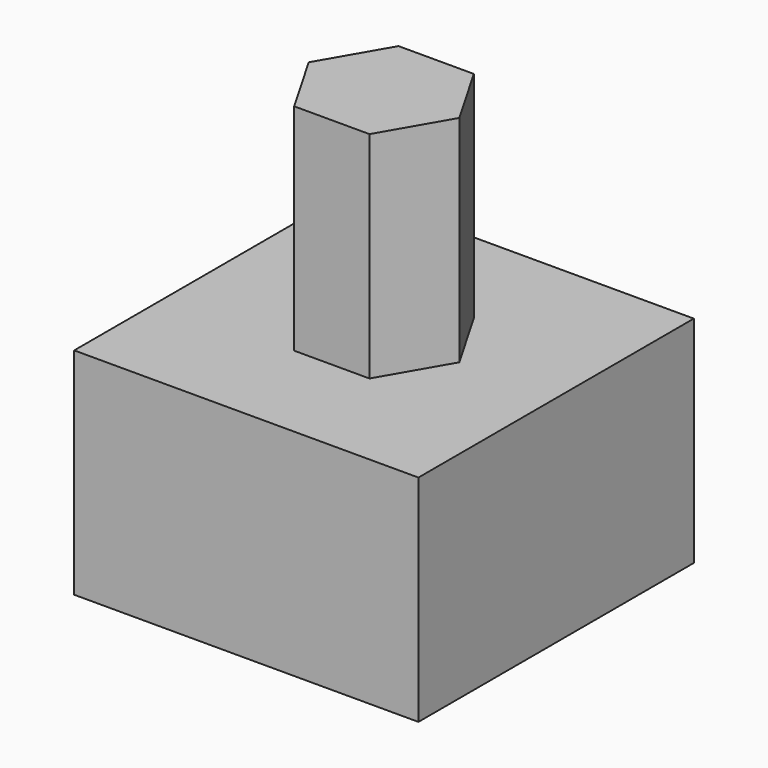
from build123d import *

# Parameters (mm, degrees)
BOX001_W      = 10
BOX001_H      = 10
BOX001_DEPTH  = 8
EXTRUDE_DEPTH = 10
BOX_W         = 16
BOX_H         = 16
BOX_DEPTH     = 10


with BuildPart() as cube001:
    # Box001 → Box001 (new body)
    with BuildSketch(Plane(origin=(-5, -5, 0), x_dir=(1, 0, 0), z_dir=(0, 0, 1))):
        with Locations((5, 5)):
            Rectangle(BOX001_W, BOX001_H)
    extrude(amount=BOX001_DEPTH)


with BuildPart() as extrude_body:
    # Sketch → Extrude (new body)
    with BuildSketch(Plane.XY):
        Polygon((-3.5, 0), (-1.75, -3.031089), (1.75, -3.031089), (3.5, 0), (1.75, 3.031089), (-1.75, 3.031089), align=None)
    extrude(amount=EXTRUDE_DEPTH)


with BuildPart() as extrude_body_1:
    # Extrude placement: moved
    add(extrude_body.part.moved(Location((0, 0, 10))))


with BuildPart() as cut:
    # Box → Box (new body)
    with BuildSketch(Plane(origin=(-8, -8, 0), x_dir=(1, 0, 0), z_dir=(0, 0, 1))):
        with Locations((8, 8)):
            Rectangle(BOX_W, BOX_H)
    extrude(amount=BOX_DEPTH)

    # Fusion: union Extrude body
    add(extrude_body_1.part)

    # Cut: cut Cube001
    add(cube001.part, mode=Mode.SUBTRACT)


solid = cut.part
